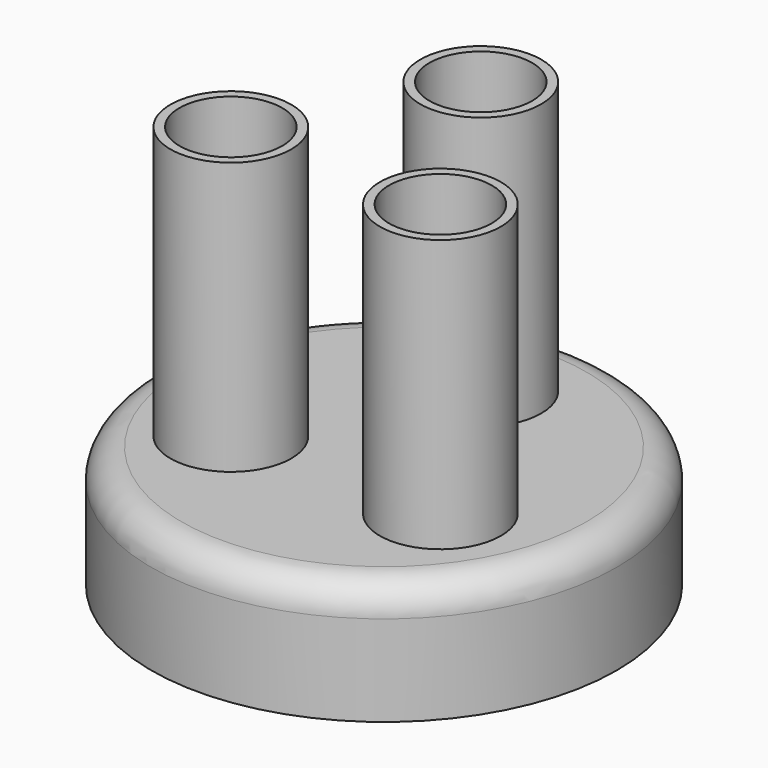
from build123d import *

# Parameters (mm, degrees)
F0_R      = 48.895
F0_R_2    = 3.175
F1_DEPTH  = 25.4
F2_R      = 6.35
F3_R      = 12.7
F4_DEPTH  = 57.15
F5_R      = 10.795
F6_DEPTH  = 50.8
F7_R      = 10.795
F8_DEPTH  = 50.8
F9_R      = 10.795
F10_DEPTH = 50.8
F11_DEPTH = 2.286


with BuildPart() as f1:
    # F0 (on Top) → F1 (new body)
    with BuildSketch(Plane.XY):
        Circle(F0_R)
        Circle(F0_R_2, mode=Mode.SUBTRACT)
    extrude(amount=F1_DEPTH)

    # F2
    f2_edges = [f1.edges().sort_by_distance(p)[0] for p in [
        (-48.895, 0, 25.4),
    ]]
    fillet(f2_edges, radius=F2_R)

    # F3 (on face) → F4 (join)
    with BuildSketch(Plane.XY.offset(25.4)):
        with Locations((0, 25.4)):
            Circle(F3_R)
        with Locations((-21.997045, -12.7)):
            Circle(F3_R)
        with Locations((21.997045, -12.7)):
            Circle(F3_R)
    extrude(amount=F4_DEPTH)

    # F5 (on face) → F6 (cut)
    with BuildSketch(Plane.XY.offset(82.55)):
        with Locations((21.997045, -12.7)):
            Circle(F5_R)
    extrude(amount=-F6_DEPTH, mode=Mode.SUBTRACT)

    # F7 (on face) → F8 (cut)
    with BuildSketch(Plane.XY.offset(82.55)):
        with Locations((-21.997045, -12.7)):
            Circle(F7_R)
    extrude(amount=-F8_DEPTH, mode=Mode.SUBTRACT)

    # F9 (on face) → F10 (cut)
    with BuildSketch(Plane.XY.offset(82.55)):
        with Locations((0, 25.4)):
            Circle(F9_R)
    extrude(amount=-F10_DEPTH, mode=Mode.SUBTRACT)

    # F3 (on face) → F11 (cut)
    with BuildSketch(Plane.XY.offset(25.4)):
        with Locations((0, 25.4)):
            Circle(F3_R)
        with Locations((-21.997045, -12.7)):
            Circle(F3_R)
        with Locations((21.997045, -12.7)):
            Circle(F3_R)
    extrude(amount=-F11_DEPTH, mode=Mode.SUBTRACT)


solid = f1.part
